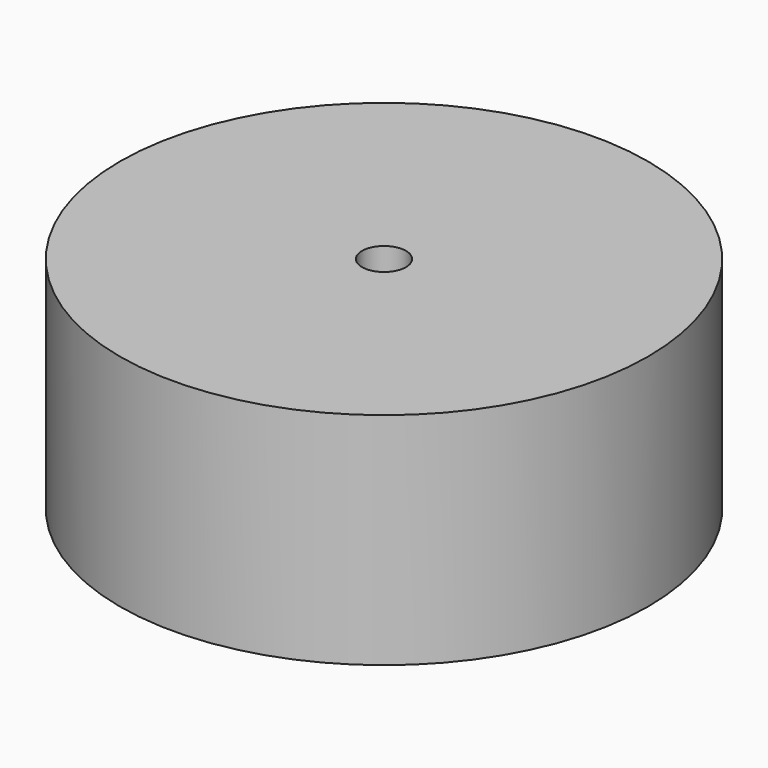
from build123d import *

# Parameters (mm, degrees)
SKETCH_R   = 30
SKETCH_R_2 = 2.5
PAD_DEPTH  = 25


with BuildPart() as part:
    # Sketch → Pad (new body)
    with BuildSketch(Plane.XY):
        Circle(SKETCH_R)
        Circle(SKETCH_R_2, mode=Mode.SUBTRACT)
    extrude(amount=PAD_DEPTH)


solid = part.part
